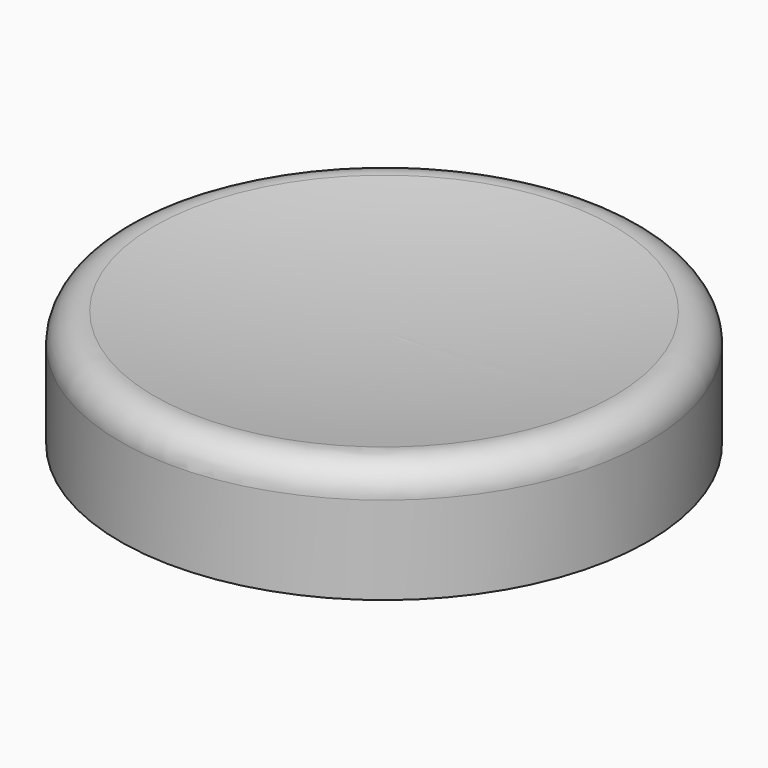
from build123d import *


with BuildPart() as f1:
    # F0 (on Front) → F1 (revolve)
    with BuildSketch(Plane.XZ):
        with BuildLine():
            Line((0, 3.372877), (0, 0))
            Line((0, 0), (9, 0))
            Line((9, 0), (9, 3))
            ThreePointArc((9, 3), (7.344721, 2.23673), (7.839036, 3.991205))
            ThreePointArc((7.839036, 3.991205), (3.931692, 3.527698), (0, 3.372877))
        make_face()
        with BuildLine():
            ThreePointArc((9, 3), (8.648047, 3.76327), (7.839036, 3.991205))
            ThreePointArc((7.839036, 3.991205), (7.344721, 2.23673), (9, 3))
        make_face()
    revolve(axis=Axis((0, 0, 4.522552), (0, 0, 1)))


solid = f1.part
